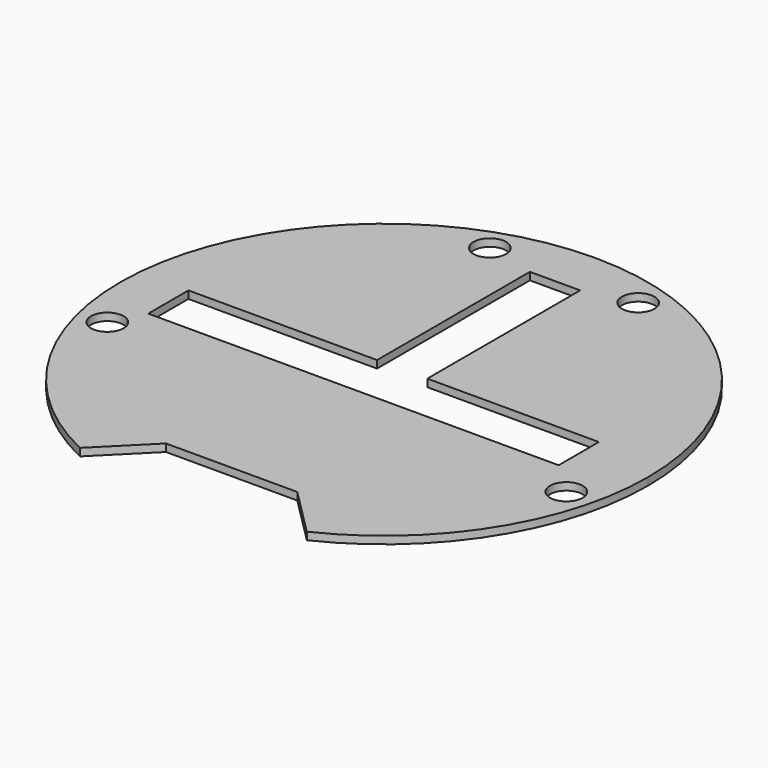
from build123d import *

# Parameters (mm, degrees)
F0_R     = 6.5
F1_DEPTH = 3


with BuildPart() as f1:
    # F0 (on Top) → F1 (new body)
    with BuildSketch(Plane.XY):
        with BuildLine():
            ThreePointArc((45.107527, -93.788211), (88.753802, -55.045718), (104.972745, 1.016069))
            ThreePointArc((104.972745, 1.016069), (-56.089042, 89.797126), (-45.162038, -93.788211))
            Line((-45.162038, -93.788211), (-26.15007, -74.776243))
            Line((-26.15007, -74.776243), (26.095559, -74.776243))
            Line((26.095559, -74.776243), (45.107527, -93.788211))
        make_face()
        with Locations((-91.341169, -22.449345)):
            Circle(F0_R, mode=Mode.SUBTRACT)
        with Locations((91.286659, -22.449345)):
            Circle(F0_R, mode=Mode.SUBTRACT)
        Polygon((-85.022339, -10), (-85.022339, 0), (-85.022339, 10), (-10, 10), (-10, 86.016065), (0, 86.016065), (10, 86.016065), (10, 10), (78.260288, 10), (78.260288, 0), (78.260288, -10), align=None, mode=Mode.SUBTRACT)
        with Locations((-29.749685, 90.793084)):
            Circle(F0_R, mode=Mode.SUBTRACT)
        with Locations((29.269962, 90.793084)):
            Circle(F0_R, mode=Mode.SUBTRACT)
    extrude(amount=F1_DEPTH)


solid = f1.part
